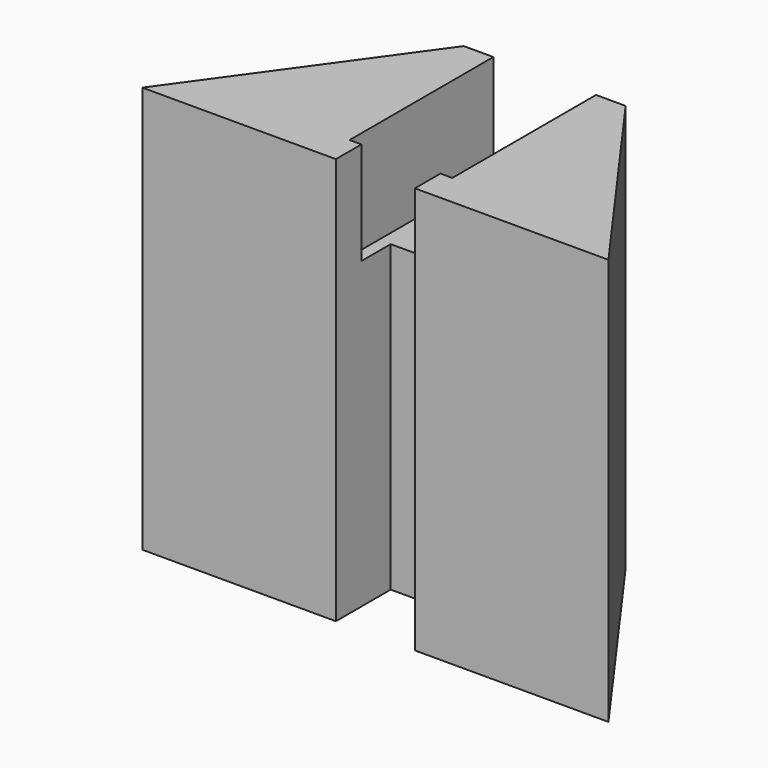
from build123d import *

# Parameters (mm, degrees)
F1_DEPTH = 51.5
F2_W     = 13
F2_H     = 13
F3_DEPTH = 22.75
F4_W     = 13
F4_H     = 3
F5_DEPTH = 5
F6_W     = 10
F6_H     = 8.67
F7_DEPTH = 51.5


with BuildPart() as f1:
    # F0 (on Top) → F1 (new body)
    with BuildSketch(Plane.XY):
        Polygon((-10.25, 13.39471), (-29.5, -13.3945), (29.5, -13.3945), (10.25, 13.39471), align=None)
    extrude(amount=-F1_DEPTH)

    # F2 (on face) → F3 (cut)
    with BuildSketch(Plane(origin=(0, 13.39471, 0), x_dir=(-1, 0, 0), z_dir=(0, 1, 0))):
        with Locations((0, -6.5)):
            Rectangle(F2_W, F2_H)
    extrude(amount=-F3_DEPTH, mode=Mode.SUBTRACT)

    # F4 (on face) → F5 (cut)
    with BuildSketch(Plane.XY.offset(-13)):
        with Locations((0, 9.89471)):
            Rectangle(F4_W, F4_H)
    extrude(amount=-F5_DEPTH, mode=Mode.SUBTRACT)

    # F6 (on face) → F7 (cut)
    with BuildSketch(Plane.XY):
        with Locations((0, -9.0595)):
            Rectangle(F6_W, F6_H)
    extrude(amount=-F7_DEPTH, mode=Mode.SUBTRACT)


solid = f1.part
